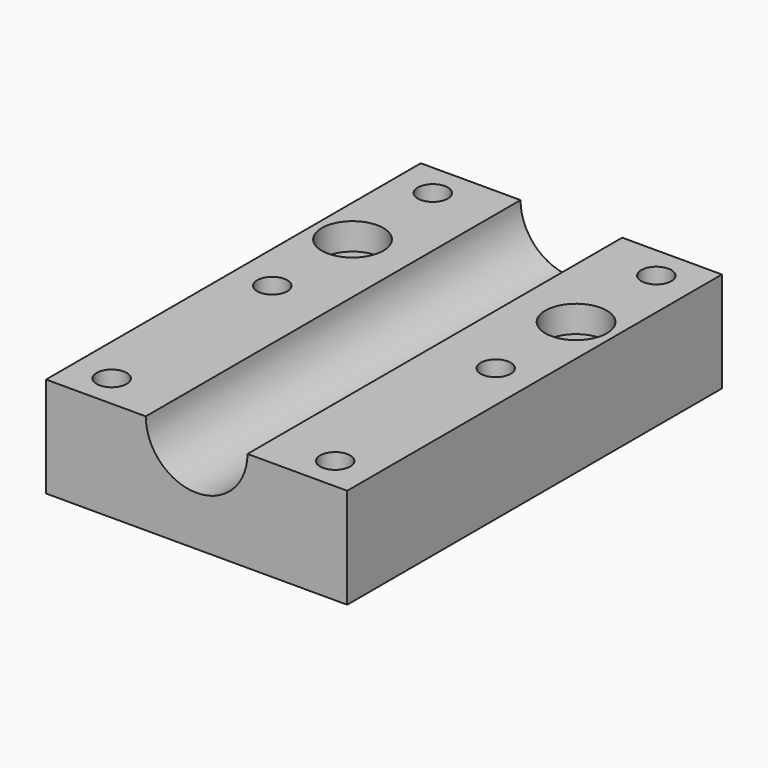
from build123d import *

# Parameters (mm, degrees)
SKETCH_W        = 45
SKETCH_H        = 70
SKETCH_R        = 2.25
PAD_DEPTH       = 15
SKETCH001_R     = 7.6
POCKET_DEPTH    = 70.001
SKETCH002_R     = 4.6
POCKET001_DEPTH = 4


with BuildPart() as part:
    # Sketch → Pad (new body)
    with BuildSketch(Plane.XY):
        Rectangle(SKETCH_W, SKETCH_H)
        with Locations((-16.7, 30)):
            Circle(SKETCH_R, mode=Mode.SUBTRACT)
        with Locations((16.7, 30)):
            Circle(SKETCH_R, mode=Mode.SUBTRACT)
        with Locations((-16.7, -30)):
            Circle(SKETCH_R, mode=Mode.SUBTRACT)
        with Locations((16.7, -30)):
            Circle(SKETCH_R, mode=Mode.SUBTRACT)
        with Locations((-16.7, 0)):
            Circle(SKETCH_R, mode=Mode.SUBTRACT)
        with Locations((16.7, 0)):
            Circle(SKETCH_R, mode=Mode.SUBTRACT)
        with Locations((16.7, 15)):
            Circle(SKETCH_R, mode=Mode.SUBTRACT)
        with Locations((-16.7, 15)):
            Circle(SKETCH_R, mode=Mode.SUBTRACT)
    extrude(amount=PAD_DEPTH)

    # Sketch001 → Pocket (cut, through all)
    with BuildSketch(Plane.XZ.offset(35)):
        with Locations((0, 15)):
            Circle(SKETCH001_R)
    extrude(amount=-POCKET_DEPTH, mode=Mode.SUBTRACT)

    # Sketch002 → Pocket001 (cut)
    with BuildSketch(Plane.XY.offset(15)):
        with Locations((-16.7, 15)):
            Circle(SKETCH002_R)
        with Locations((16.7, 15)):
            Circle(SKETCH002_R)
    extrude(amount=-POCKET001_DEPTH, mode=Mode.SUBTRACT)


solid = part.part
